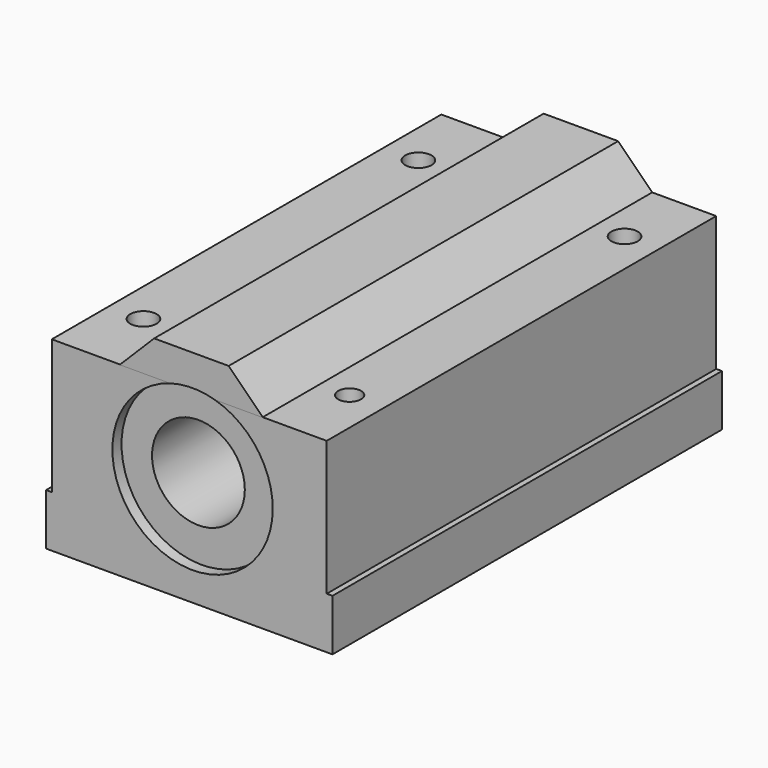
from build123d import *

# Parameters (mm, degrees)
CYLINDER006_R          = 14
CYLINDER006_DEPTH      = 3
CYLINDER006_ROLL_ANGLE = -90
CYLINDER005_R          = 14
CYLINDER005_DEPTH      = 3
CYLINDER005_ROLL_ANGLE = -90
CYLINDER004_R          = 2.3
CYLINDER004_DEPTH      = 40
CYLINDER003_R          = 2
CYLINDER003_DEPTH      = 40
CYLINDER002_R          = 2.3
CYLINDER002_DEPTH      = 40
CYLINDER001_R          = 2.3
CYLINDER001_DEPTH      = 40
BOX005_W               = 1
BOX005_H               = 85
BOX005_DEPTH           = 23.5
BOX004_W               = 1
BOX004_H               = 85
BOX004_DEPTH           = 23.5
BOX003_W               = 10
BOX003_H               = 90
BOX003_DEPTH           = 10
BOX003_ROLL_ANGLE      = 3e-06
BOX003_PITCH_ANGLE     = -44.999934
BOX003_PLACEMENT_ANGLE = -7e-06
BOX002_W               = 10
BOX002_H               = 90
BOX002_DEPTH           = 10
BOX002_ROLL_ANGLE      = 3e-06
BOX002_PITCH_ANGLE     = 44.999934
BOX002_PLACEMENT_ANGLE = 7e-06
BOX001_W               = 25
BOX001_H               = 85
BOX001_DEPTH           = 6
CYLINDER_R             = 8.1
CYLINDER_DEPTH         = 100
CYLINDER_ROLL_ANGLE    = -90
BOX_W                  = 50
BOX_H                  = 85
BOX_DEPTH              = 32.5


with BuildPart() as cylinder006:
    # Cylinder006 → Cylinder006 (new body)
    with BuildSketch(Plane.XY):
        Circle(CYLINDER006_R)
    extrude(amount=CYLINDER006_DEPTH)


with BuildPart() as cylinder006_1:
    # Cylinder006 roll: moved
    add(cylinder006.part.rotate(Axis((0, 0, 0), (1, 0, 0)), CYLINDER006_ROLL_ANGLE))


with BuildPart() as cylinder006_2:
    # Cylinder006 placement: moved
    add(cylinder006_1.part.moved(Location((25.6346, 83, 19.0294))))


with BuildPart() as cylinder005:
    # Cylinder005 → Cylinder005 (new body)
    with BuildSketch(Plane.XY):
        Circle(CYLINDER005_R)
    extrude(amount=CYLINDER005_DEPTH)


with BuildPart() as cylinder005_1:
    # Cylinder005 roll: moved
    add(cylinder005.part.rotate(Axis((0, 0, 0), (1, 0, 0)), CYLINDER005_ROLL_ANGLE))


with BuildPart() as cylinder005_2:
    # Cylinder005 placement: moved
    add(cylinder005_1.part.moved(Location((25.5737, -1, 19.0038))))


with BuildPart() as cylinder004:
    # Cylinder004 → Cylinder004 (new body)
    with BuildSketch(Plane(origin=(43, 72.5, -4), x_dir=(1, 0, 0), z_dir=(0, 0, 1))):
        Circle(CYLINDER004_R)
    extrude(amount=CYLINDER004_DEPTH)


with BuildPart() as cylinder003:
    # Cylinder003 → Cylinder003 (new body)
    with BuildSketch(Plane(origin=(43, 12.5, -4), x_dir=(1, 0, 0), z_dir=(0, 0, 1))):
        Circle(CYLINDER003_R)
    extrude(amount=CYLINDER003_DEPTH)


with BuildPart() as cylinder002:
    # Cylinder002 → Cylinder002 (new body)
    with BuildSketch(Plane(origin=(7, 72.5, -3), x_dir=(1, 0, 0), z_dir=(0, 0, 1))):
        Circle(CYLINDER002_R)
    extrude(amount=CYLINDER002_DEPTH)


with BuildPart() as cylinder001:
    # Cylinder001 → Cylinder001 (new body)
    with BuildSketch(Plane(origin=(7, 12.5, -2), x_dir=(1, 0, 0), z_dir=(0, 0, 1))):
        Circle(CYLINDER001_R)
    extrude(amount=CYLINDER001_DEPTH)


with BuildPart() as box005:
    # Box005 → Box005 (new body)
    with BuildSketch(Plane(origin=(49, 0, 9), x_dir=(1, 0, 0), z_dir=(0, 0, 1))):
        with Locations((0.5, 42.5)):
            Rectangle(BOX005_W, BOX005_H)
    extrude(amount=BOX005_DEPTH)


with BuildPart() as box004:
    # Box004 → Box004 (new body)
    with BuildSketch(Plane.XY.offset(9)):
        with Locations((0.5, 42.5)):
            Rectangle(BOX004_W, BOX004_H)
    extrude(amount=BOX004_DEPTH)


with BuildPart() as box003:
    # Box003 → Box003 (new body)
    with BuildSketch(Plane.XY):
        with Locations((5, 45)):
            Rectangle(BOX003_W, BOX003_H)
    extrude(amount=BOX003_DEPTH)


with BuildPart() as box003_1:
    # Box003 roll: moved
    add(box003.part.rotate(Axis((0, 0, 0), (1, 0, 0)), BOX003_ROLL_ANGLE))


with BuildPart() as box003_2:
    # Box003 pitch: moved
    add(box003_1.part.rotate(Axis((0, 0, 0), (0, 1, 0)), BOX003_PITCH_ANGLE))


with BuildPart() as box003_3:
    # Box003 placement: moved
    add(box003_2.part.moved(Location((-18.82, -2, 2.25))).rotate(Axis((-18.82, -2, 2.25), (0, 0, 1)), BOX003_PLACEMENT_ANGLE))


with BuildPart() as box002:
    # Box002 → Box002 (new body)
    with BuildSketch(Plane.XY):
        with Locations((5, 45)):
            Rectangle(BOX002_W, BOX002_H)
    extrude(amount=BOX002_DEPTH)


with BuildPart() as box002_1:
    # Box002 roll: moved
    add(box002.part.rotate(Axis((0, 0, 0), (1, 0, 0)), BOX002_ROLL_ANGLE))


with BuildPart() as box002_2:
    # Box002 pitch: moved
    add(box002_1.part.rotate(Axis((0, 0, 0), (0, 1, 0)), BOX002_PITCH_ANGLE))


with BuildPart() as box002_3:
    # Box002 placement: moved
    add(box002_2.part.moved(Location((-50.8986, -3, 9.31859))).rotate(Axis((-50.8986, -3, 9.31859), (0, 0, 1)), BOX002_PLACEMENT_ANGLE))


with BuildPart() as cut002:
    # Box001 → Box001 (new body)
    with BuildSketch(Plane(origin=(-43.825523, -3.3e-05, 2.247464), x_dir=(1, 0, 0), z_dir=(0, 0, 1))):
        with Locations((12.5, 42.5)):
            Rectangle(BOX001_W, BOX001_H)
    extrude(amount=BOX001_DEPTH)

    # Cut001: cut Box002
    add(box002_3.part, mode=Mode.SUBTRACT)

    # Cut002: cut Box003
    add(box003_3.part, mode=Mode.SUBTRACT)


with BuildPart() as cut002_1:
    # Cut002 placement: moved
    add(cut002.part.moved(Location((56.6969, -0.000184, 30.2))))


with BuildPart() as cylinder:
    # Cylinder → Cylinder (new body)
    with BuildSketch(Plane.XY):
        Circle(CYLINDER_R)
    extrude(amount=CYLINDER_DEPTH)


with BuildPart() as cylinder_1:
    # Cylinder roll: moved
    add(cylinder.part.rotate(Axis((0, 0, 0), (1, 0, 0)), CYLINDER_ROLL_ANGLE))


with BuildPart() as cylinder_2:
    # Cylinder placement: moved
    add(cylinder_1.part.moved(Location((25, -4.78696, 19))))


with BuildPart() as cut011:
    # Box → Box (new body)
    with BuildSketch(Plane.XY):
        with Locations((25, 42.5)):
            Rectangle(BOX_W, BOX_H)
    extrude(amount=BOX_DEPTH)

    # Cut: cut Cylinder
    add(cylinder_2.part, mode=Mode.SUBTRACT)

    # Fusion: union Cut002
    add(cut002_1.part)

    # Cut003: cut Box004
    add(box004.part, mode=Mode.SUBTRACT)

    # Cut004: cut Box005
    add(box005.part, mode=Mode.SUBTRACT)

    # Cut005: cut Cylinder001
    add(cylinder001.part, mode=Mode.SUBTRACT)

    # Cut006: cut Cylinder002
    add(cylinder002.part, mode=Mode.SUBTRACT)

    # Cut007: cut Cylinder003
    add(cylinder003.part, mode=Mode.SUBTRACT)

    # Cut008: cut Cylinder004
    add(cylinder004.part, mode=Mode.SUBTRACT)

    # Cut009: cut Cylinder005
    add(cylinder005_2.part, mode=Mode.SUBTRACT)

    # Cut010: cut Cylinder005
    add(cylinder005_2.part, mode=Mode.SUBTRACT)

    # Cut011: cut Cylinder006
    add(cylinder006_2.part, mode=Mode.SUBTRACT)


solid = cut011.part
